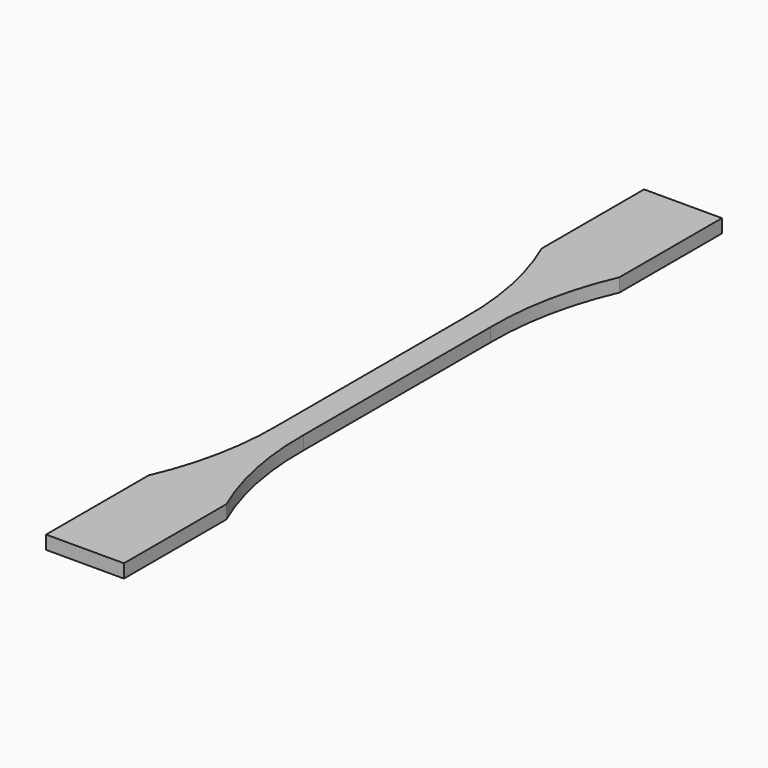
from build123d import *

# Parameters (mm, degrees)
F1_DEPTH = 3.302


with BuildPart() as f1:
    # F0 (on Top) → F1 (new body)
    with BuildSketch(Plane.XY):
        with BuildLine():
            Line((-3.175, 28.575), (-3.175, 0))
            Line((-3.175, 0), (-3.175, -28.575))
            ThreePointArc((-3.175, -28.575), (-4.665443, -44.688769), (-9.525, -60.124431))
            Line((-9.525, -60.124431), (-9.525, -91.44))
            Line((-9.525, -91.44), (0, -91.44))
            Line((0, -91.44), (9.525, -91.44))
            Line((9.525, -91.44), (9.525, -60.124431))
            ThreePointArc((9.525, -60.124431), (4.665443, -44.688769), (3.175, -28.575))
            Line((3.175, -28.575), (3.175, 0))
            Line((3.175, 0), (3.175, 28.575))
            ThreePointArc((3.175, 28.575), (4.665443, 44.688769), (9.525, 60.124431))
            Line((9.525, 60.124431), (9.525, 91.44))
            Line((9.525, 91.44), (0, 91.44))
            Line((0, 91.44), (-9.525, 91.44))
            Line((-9.525, 91.44), (-9.525, 60.124431))
            ThreePointArc((-9.525, 60.124431), (-4.665443, 44.688769), (-3.175, 28.575))
        make_face()
    extrude(amount=F1_DEPTH)


solid = f1.part
